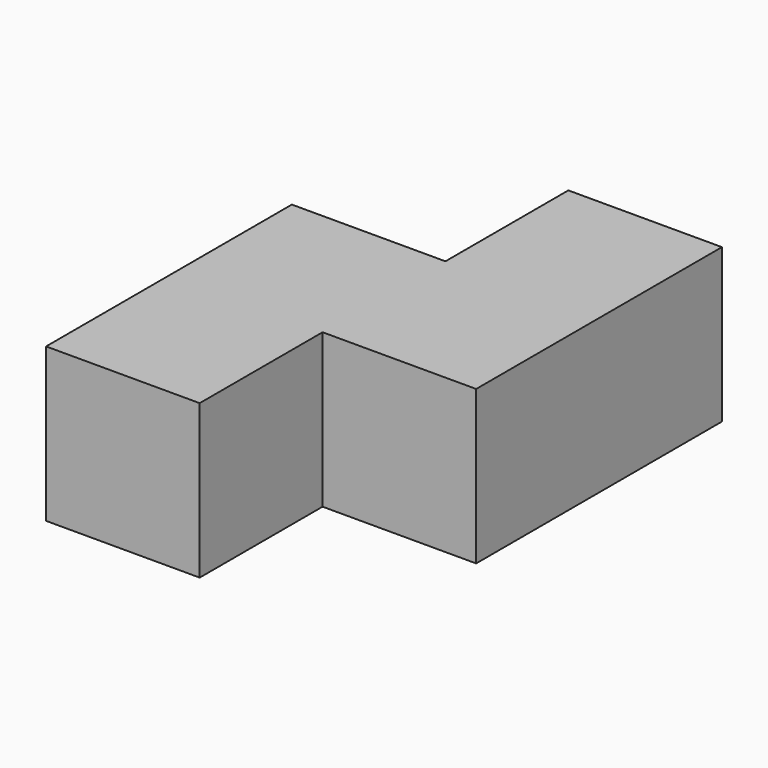
from build123d import *

# Parameters (mm, degrees)
BOX026_W                     = 10
BOX026_H                     = 10
BOX026_DEPTH                 = 10
BOX027_W                     = 10
BOX027_H                     = 10
BOX027_DEPTH                 = 10
BOX028_W                     = 10
BOX028_H                     = 10
BOX028_DEPTH                 = 10
BOX029_W                     = 10
BOX029_H                     = 10
BOX029_DEPTH                 = 10
FUSION002006_PLACEMENT_ANGLE = 180


with BuildPart() as cubo026:
    # Box026 → Box026 (new body)
    with BuildSketch(Plane(origin=(0, 10, 0), x_dir=(1, 0, 0), z_dir=(0, 0, 1))):
        with Locations((5, 5)):
            Rectangle(BOX026_W, BOX026_H)
    extrude(amount=BOX026_DEPTH)


with BuildPart() as cubo027:
    # Box027 → Box027 (new body)
    with BuildSketch(Plane(origin=(10, 10, 0), x_dir=(1, 0, 0), z_dir=(0, 0, 1))):
        with Locations((5, 5)):
            Rectangle(BOX027_W, BOX027_H)
    extrude(amount=BOX027_DEPTH)


with BuildPart() as cubo028:
    # Box028 → Box028 (new body)
    with BuildSketch(Plane(origin=(0, 20, 0), x_dir=(1, 0, 0), z_dir=(0, 0, 1))):
        with Locations((5, 5)):
            Rectangle(BOX028_W, BOX028_H)
    extrude(amount=BOX028_DEPTH)


with BuildPart() as fusion002006:
    # Box029 → Box029 (new body)
    with BuildSketch(Plane(origin=(10, 0, 0), x_dir=(1, 0, 0), z_dir=(0, 0, 1))):
        with Locations((5, 5)):
            Rectangle(BOX029_W, BOX029_H)
    extrude(amount=BOX029_DEPTH)

    # Fusion002006: union Cubo026, Cubo027, Cubo028
    add(cubo026.part)
    add(cubo027.part)
    add(cubo028.part)


with BuildPart() as fusion002006_1:
    # Fusion002006 placement: moved
    add(fusion002006.part.moved(Location((20, 80, 0))).rotate(Axis((20, 80, 0), (0, 1, 0)), FUSION002006_PLACEMENT_ANGLE))


solid = fusion002006_1.part
